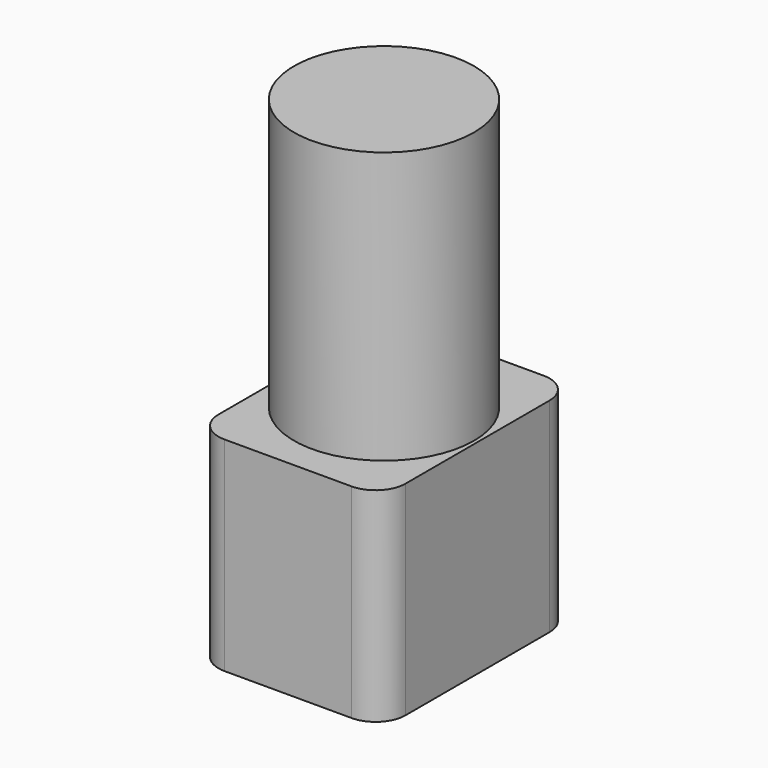
from build123d import *

# Parameters (mm, degrees)
F0_R     = 9.525
F1_DEPTH = 28.7274
F2_W     = 19.80688
F2_H     = 25.4
F3_DEPTH = 21.59
F4_R     = 3.175


with BuildPart() as f1:
    # F0 (on Top) → F1 (new body)
    with BuildSketch(Plane.XY):
        Circle(F0_R)
    extrude(amount=F1_DEPTH)

    # F2 (on face) → F3 (join)
    with BuildSketch(Plane(origin=(0, 0, 0), x_dir=(1, 0, 0), z_dir=(0, 0, -1))):
        Rectangle(F2_W, F2_H)
    extrude(amount=F3_DEPTH)

    # F4
    f4_edges = [f1.edges().sort_by_distance(p)[0] for p in [
        (9.90344, -12.7, -10.795),
        (-9.90344, -12.7, -10.795),
        (9.90344, 12.7, -10.795),
        (-9.90344, 12.7, -10.795),
    ]]
    fillet(f4_edges, radius=F4_R)


solid = f1.part
